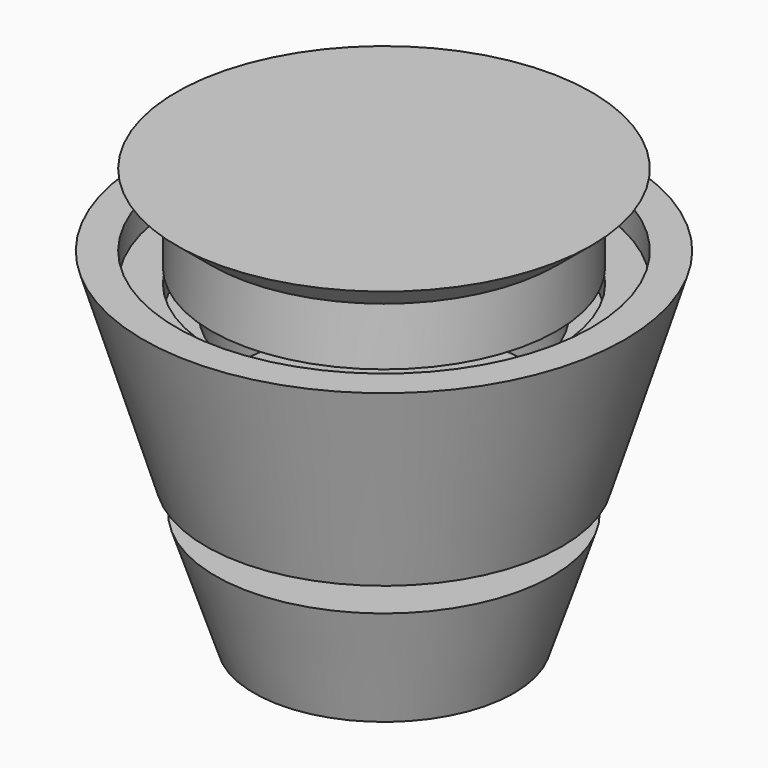
from build123d import *


with BuildPart() as f1:
    # F0 (on Front) → F1 (revolve)
    with BuildSketch(Plane.XZ):
        Polygon((0, 21), (0, 0), (27, 0), (35, 24), (25.125, 24), (17.875, 27), (3, 27), (3, 21), align=None)
        Polygon((4, 30), (17.875, 30.089209), (17.875, 36.089209), (25.125, 36.089209), (25.125, 30.089209), (37, 30.089209), (50, 72.089209), (43.125, 72.089209), (43.125, 66.089209), (35.875, 66.089209), (35.875, 60.089209), (30, 60.089209), (30, 42), (10.5, 42), (10.5, 36), (4, 36), align=None)
        Polygon((0, 69.089209), (35.875, 69.089209), (35.875, 81.089209), (43.125, 87.089209), (0, 87.089209), align=None)
    revolve(axis=Axis((0, 0, 78.089209), (0, 0, 1)))


solid = f1.part
